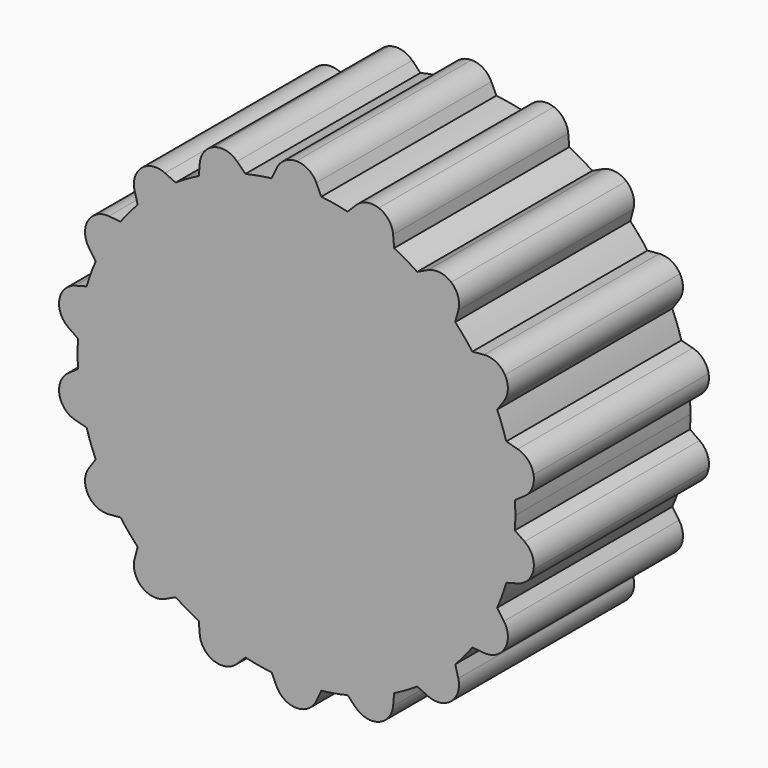
from build123d import *

# Parameters (mm, degrees)
F1_DEPTH = 10
F3_DEPTH = 10
F4_COUNT = 18


with BuildPart() as f1:
    # F0 (on Front) → F1 (new body)
    with BuildSketch(Plane.XZ):
        with BuildLine():
            ThreePointArc((-1.1334270023, 9.9355595328), (-6.6582929485, -7.461041148), (10, 0))
            ThreePointArc((10, 0), (7.461041148, 6.6582929485), (1.1334270023, 9.9355595328))
            ThreePointArc((1.1334270023, 9.9355595328), (0, 10), (-1.1334270023, 9.9355595328))
        make_face()
    extrude(amount=-F1_DEPTH)

    # F2 (on face) → F3 (join)
    with BuildSketch(Plane.XZ):
        with BuildLine():
            Line((-0.906307787, 10.4226182617), (-1.1334270023, 9.9355595328))
            ThreePointArc((-1.1334270023, 9.9355595328), (0, 9.5833893877), (1.1334270023, 9.9355595328))
            Line((1.1334270023, 9.9355595328), (0.906307787, 10.4226182617))
            ThreePointArc((0.906307787, 10.4226182617), (0.5372996083, 10.8433914458), (0, 11))
            ThreePointArc((0, 11), (-0.5372996083, 10.8433914458), (-0.906307787, 10.4226182617))
        make_face()
    extrude(amount=-F3_DEPTH)

    # F4: F1 ×18 about axis
    f4_axis = Axis((0, 0, 0), (0, -1, 0))


with BuildPart() as f1_1:
    add(f1.part)
    for i in range(1, F4_COUNT):
        add(f1.part.rotate(f4_axis, i * 360 / F4_COUNT))


solid = f1_1.part
